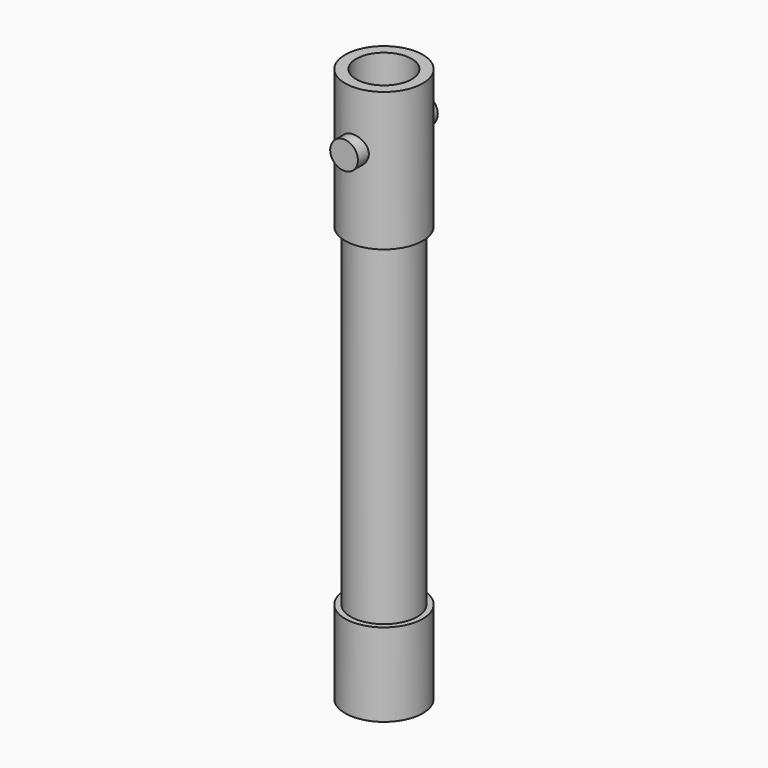
from build123d import *

# Parameters (mm, degrees)
F2_R     = 2.5
F3_DEPTH = 9


with BuildPart() as f1:
    # F0 (on Front) → F1 (revolve)
    with BuildSketch(Plane.XZ):
        Polygon((7, 31), (5, 31), (5, -69), (7, -69), (7, -54), (6, -54), (6, 6), (7, 6), align=None)
    revolve(axis=Axis((0, 0, -22.5128643215), (0, 0, -1)))

    # F2 (on Front) → F3 (join, symmetric)
    with BuildSketch(Plane.XZ):
        with Locations((0, 21)):
            Circle(F2_R)
    extrude(amount=F3_DEPTH, both=True)


solid = f1.part
